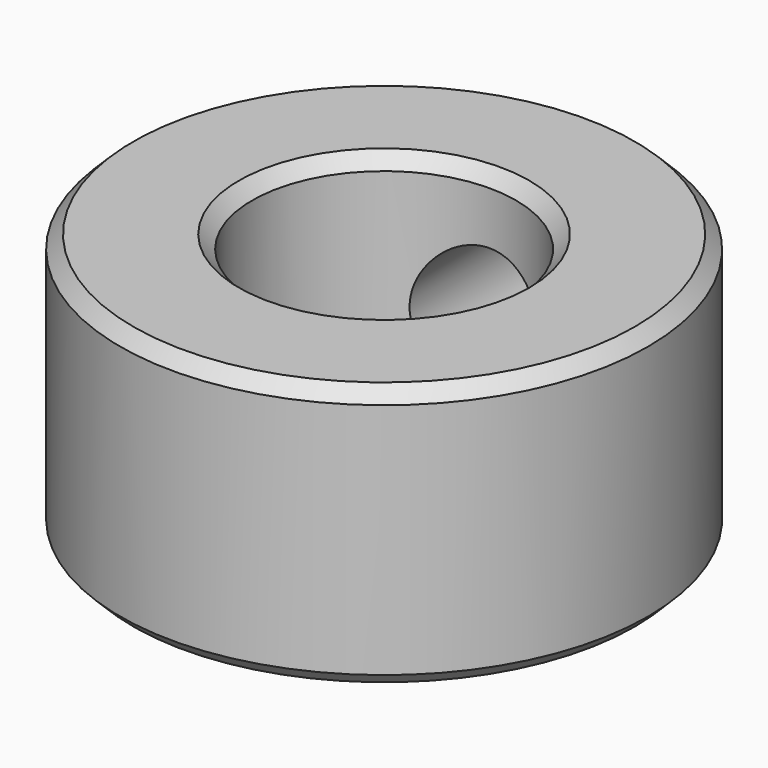
from build123d import *

# Parameters (mm, degrees)
SKETCH_R     = 10
SKETCH_R_2   = 5
PAD_DEPTH    = 5
SKETCH001_R  = 2.5
POCKET_DEPTH = 10.001
CHAMFER_SIZE = 0.5


with BuildPart() as part:
    # Sketch → Pad (new body, symmetric)
    with BuildSketch(Plane.XY):
        Circle(SKETCH_R)
        Circle(SKETCH_R_2, mode=Mode.SUBTRACT)
    extrude(amount=PAD_DEPTH, both=True)

    # Sketch001 → Pocket (cut, through all)
    with BuildSketch(Plane.XZ):
        Circle(SKETCH001_R)
    extrude(amount=-POCKET_DEPTH, mode=Mode.SUBTRACT)

    # Chamfer
    chamfer_edges = [part.edges().sort_by_distance(p)[0] for p in [
        (-5, 0, -5),
        (-10, 0, -5),
        (-5, 0, 5),
        (-10, 0, 5),
    ]]
    chamfer(chamfer_edges, length=CHAMFER_SIZE)


solid = part.part
